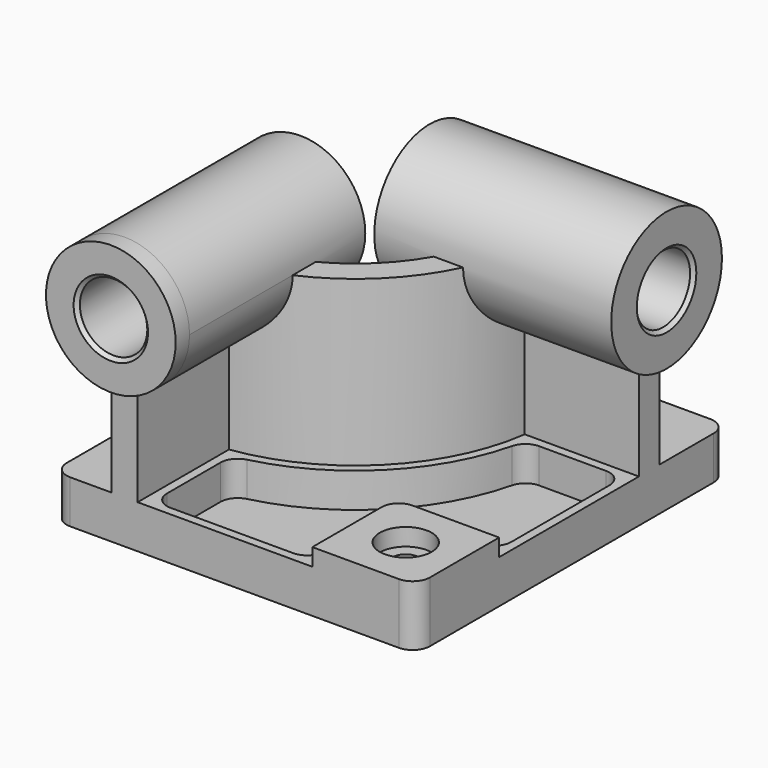
from build123d import *

# Parameters (mm, degrees)
F0_W            = 210
F0_H            = 225
F1_DEPTH        = 25
F3_DEPTH        = 95
F4_R            = 37.5
F5_DEPTH        = 10
F5_DEPTH_BACK   = 127
F6_R            = 40
F7_DEPTH        = 10
F7_DEPTH_BACK   = 127
F8_W            = 60
F8_H            = 60
F9_DEPTH        = 10
F10_R           = 10
F12_DEPTH       = 20
F14_D           = 15
F14_CBORE_D     = 30
F14_CBORE_DEPTH = 10
F15_R           = 10
F16_R           = 19.5
F17_DEPTH       = 235.001
F18_R           = 19.5
F19_DEPTH       = 220.001
F20_SIZE        = 2
F21_R           = 10


with BuildPart() as f1:
    # F0 (on Top) → F1 (new body)
    with BuildSketch(Plane.XY):
        Rectangle(F0_W, F0_H)
    extrude(amount=F1_DEPTH)

    # F2 (on face) → F3 (join)
    with BuildSketch(Plane.XY.offset(25)):
        with BuildLine():
            Line((-71, -32.5), (-71, -112.5))
            Line((-71, -112.5), (-56, -112.5))
            Line((-56, -112.5), (-56, -46.481817))
            ThreePointArc((-56, -46.481817), (7.488853, -14.988853), (38.981817, 48.5))
            Line((38.981817, 48.5), (105, 48.5))
            Line((105, 48.5), (105, 63.5))
            Line((105, 63.5), (25, 63.5))
            ThreePointArc((25, 63.5), (-3.117749, -4.382251), (-71, -32.5))
        make_face()
    extrude(amount=F3_DEPTH)

    # F4 (on face) → F5 (join, two sides)
    with BuildSketch(Plane.XZ.offset(112.5)) as f5_sk:
        with Locations((-63.5, 120)):
            Circle(F4_R)
    extrude(amount=F5_DEPTH)
    extrude(f5_sk.sketch, amount=-F5_DEPTH_BACK)

    # F6 (on face) → F7 (join, two sides)
    with BuildSketch(Plane.YZ.offset(105)) as f7_sk:
        with Locations((56, 120)):
            Circle(F6_R)
    extrude(amount=F7_DEPTH)
    extrude(f7_sk.sketch, amount=-F7_DEPTH_BACK)

    # F8 (on face) → F9 (join)
    with BuildSketch(Plane.XY.offset(25)):
        with Locations((75, -82.5)):
            Rectangle(F8_W, F8_H)
    extrude(amount=F9_DEPTH)

    # F10
    f10_edges = [f1.edges().sort_by_distance(p)[0] for p in [
        (45, -52.5, 30),
    ]]
    fillet(f10_edges, radius=F10_R)

    # F11 (on face) → F12 (cut)
    with BuildSketch(Plane.XY.offset(25)):
        with BuildLine():
            ThreePointArc((43.262855, 43.5), (11.024387, -18.524387), (-51, -50.762855))
            Line((-51, -50.762855), (-51, -107.5))
            Line((-51, -107.5), (40, -107.5))
            Line((40, -107.5), (40, -62.5))
            ThreePointArc((40, -62.5), (44.393398, -51.893398), (55, -47.5))
            Line((55, -47.5), (100, -47.5))
            Line((100, -47.5), (100, 43.5))
            Line((100, 43.5), (43.262855, 43.5))
        make_face()
    extrude(amount=-F12_DEPTH, mode=Mode.SUBTRACT)

    # F14 (through all)
    with Locations(Plane.XY.offset(35)):
        with Locations((75, -82.5)):
            CounterBoreHole(F14_D / 2, F14_CBORE_D / 2, F14_CBORE_DEPTH)

    # F15
    f15_edges = [f1.edges().sort_by_distance(p)[0] for p in [
        (-51, -50.762855, 15),
        (43.262855, 43.5, 15),
        (100, 43.5, 15),
        (40, -107.5, 15),
        (100, -47.5, 15),
        (-51, -107.5, 15),
    ]]
    fillet(f15_edges, radius=F15_R)

    # F16 (on face) → F17 (cut, through all)
    with BuildSketch(Plane.XZ.offset(122.5)):
        with Locations((-63.5, 120)):
            Circle(F16_R)
    extrude(amount=-F17_DEPTH, mode=Mode.SUBTRACT)

    # F18 (on face) → F19 (cut, through all)
    with BuildSketch(Plane.YZ.offset(115)):
        with Locations((56, 120)):
            Circle(F18_R)
    extrude(amount=-F19_DEPTH, mode=Mode.SUBTRACT)

    # F20
    f20_edges = [f1.edges().sort_by_distance(p)[0] for p in [
        (-83, -122.5, 120),
        (115, 36.5, 120),
        (-22, 36.5, 120),
        (-83, 14.5, 120),
    ]]
    chamfer(f20_edges, length=F20_SIZE)

    # F21
    f21_edges = [f1.edges().sort_by_distance(p)[0] for p in [
        (-105, 112.5, 12.5),
        (-105, -112.5, 12.5),
        (105, 112.5, 12.5),
        (105, -112.5, 17.5),
    ]]
    fillet(f21_edges, radius=F21_R)


solid = f1.part
